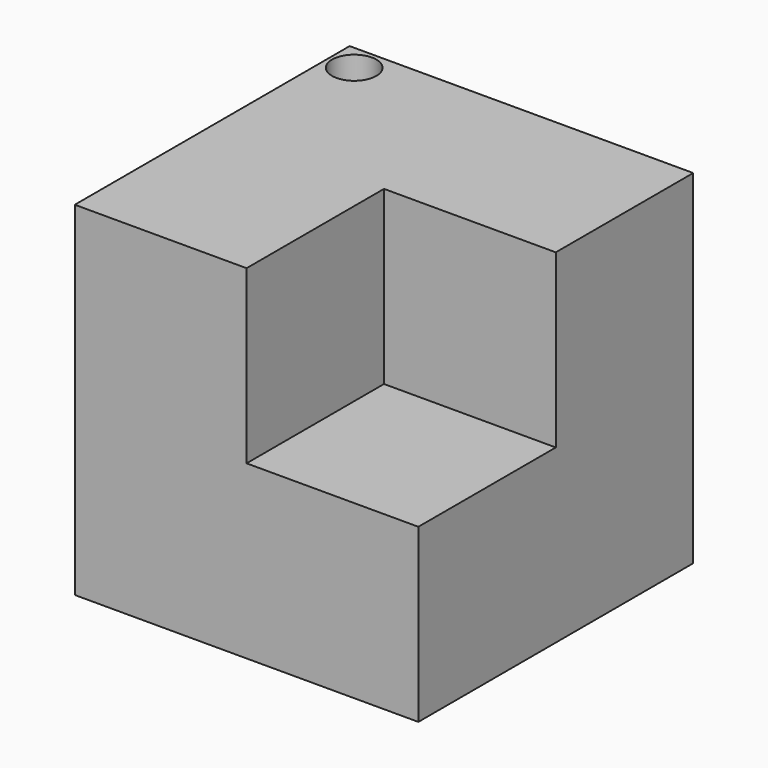
from build123d import *

# Parameters (mm, degrees)
F0_W     = 101.6
F0_H     = 101.6
F1_DEPTH = 101.6
F2_R     = 6.552167
F3_DEPTH = 101.6
F4_W     = 50.8
F4_H     = 50.8
F5_DEPTH = 50.8


with BuildPart() as f1:
    # F0 (on Front) → F1 (new body)
    with BuildSketch(Plane.XZ):
        with Locations((-50.8, 50.8)):
            Rectangle(F0_W, F0_H)
    extrude(amount=F1_DEPTH)

    # F2 (on face) → F3 (cut)
    with BuildSketch(Plane.XY.offset(101.6)):
        with Locations((-94.014853, -7.79883)):
            Circle(F2_R)
    extrude(amount=-F3_DEPTH, mode=Mode.SUBTRACT)

    # F4 (on face) → F5 (cut)
    with BuildSketch(Plane.XY.offset(101.6)):
        with Locations((-25.4, -76.2)):
            Rectangle(F4_W, F4_H)
    extrude(amount=-F5_DEPTH, mode=Mode.SUBTRACT)


solid = f1.part
